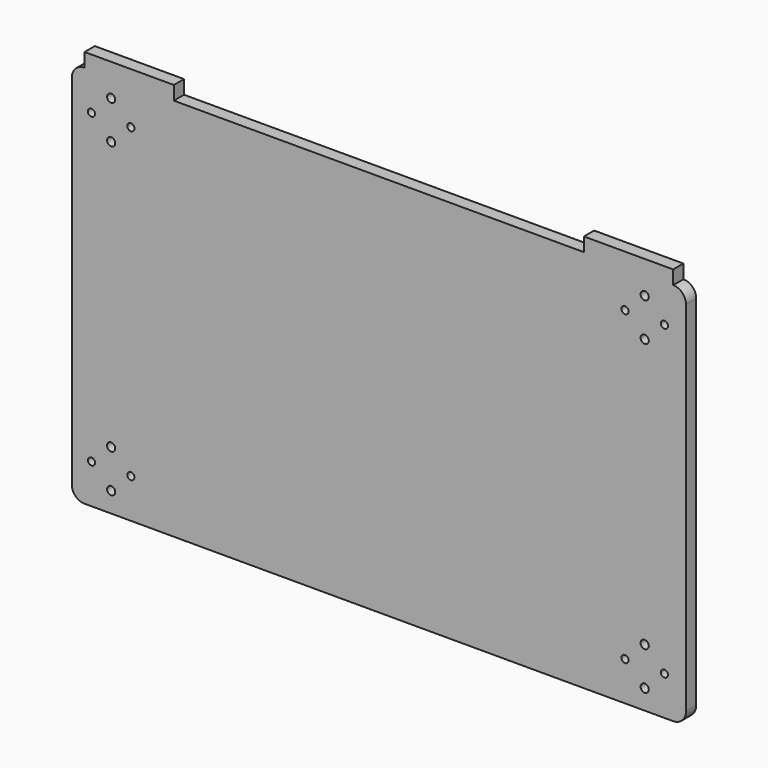
from build123d import *

# Parameters (mm, degrees)
F0_R     = 2.032
F0_R_2   = 1.778
F1_DEPTH = 6.35


with BuildPart() as f1:
    # F0 (on Front) → F1 (new body)
    with BuildSketch(Plane.XZ):
        with BuildLine():
            ThreePointArc((-259.009659, -35.337503), (-257.149787, -39.827632), (-252.659659, -41.687503))
            Line((-252.659659, -41.687503), (39.440341, -41.687503))
            ThreePointArc((39.440341, -41.687503), (43.930469, -39.827632), (45.790341, -35.337503))
            Line((45.790341, -35.337503), (45.790341, 142.462497))
            ThreePointArc((45.790341, 142.462497), (43.930469, 146.952625), (39.440341, 148.812497))
            Line((39.440341, 148.812497), (39.440341, 155.670497))
            Line((39.440341, 155.670497), (-4.857259, 155.670497))
            Line((-4.857259, 155.670497), (-4.857259, 148.812497))
            Line((-4.857259, 148.812497), (-208.362059, 148.812497))
            Line((-208.362059, 148.812497), (-208.362059, 155.670497))
            Line((-208.362059, 155.670497), (-252.659659, 155.670497))
            Line((-252.659659, 155.670497), (-252.659659, 148.812497))
            ThreePointArc((-252.659659, 148.812497), (-257.149787, 146.952625), (-259.009659, 142.462497))
            Line((-259.009659, 142.462497), (-259.009659, -35.337503))
        make_face()
        with Locations((-239.467046, -31.6545)):
            Circle(F0_R, mode=Mode.SUBTRACT)
        with Locations((-249.246046, -22.1295)):
            Circle(F0_R_2, mode=Mode.SUBTRACT)
        with Locations((-229.688046, -22.1295)):
            Circle(F0_R_2, mode=Mode.SUBTRACT)
        with Locations((-239.467046, -12.6045)):
            Circle(F0_R, mode=Mode.SUBTRACT)
        with Locations((25.296086, -31.829102)):
            Circle(F0_R, mode=Mode.SUBTRACT)
        with Locations((15.517086, -22.304102)):
            Circle(F0_R_2, mode=Mode.SUBTRACT)
        with Locations((35.075086, -22.304102)):
            Circle(F0_R_2, mode=Mode.SUBTRACT)
        with Locations((25.296086, -12.779102)):
            Circle(F0_R, mode=Mode.SUBTRACT)
        with Locations((-249.246046, 130.2705)):
            Circle(F0_R_2, mode=Mode.SUBTRACT)
        with Locations((-239.467046, 120.7455)):
            Circle(F0_R, mode=Mode.SUBTRACT)
        with Locations((-229.688046, 130.2705)):
            Circle(F0_R_2, mode=Mode.SUBTRACT)
        with Locations((-239.467046, 139.7955)):
            Circle(F0_R, mode=Mode.SUBTRACT)
        with Locations((25.296086, 120.570898)):
            Circle(F0_R, mode=Mode.SUBTRACT)
        with Locations((15.517086, 130.095898)):
            Circle(F0_R_2, mode=Mode.SUBTRACT)
        with Locations((35.075086, 130.095898)):
            Circle(F0_R_2, mode=Mode.SUBTRACT)
        with Locations((25.296086, 139.620898)):
            Circle(F0_R, mode=Mode.SUBTRACT)
    extrude(amount=F1_DEPTH)


solid = f1.part
